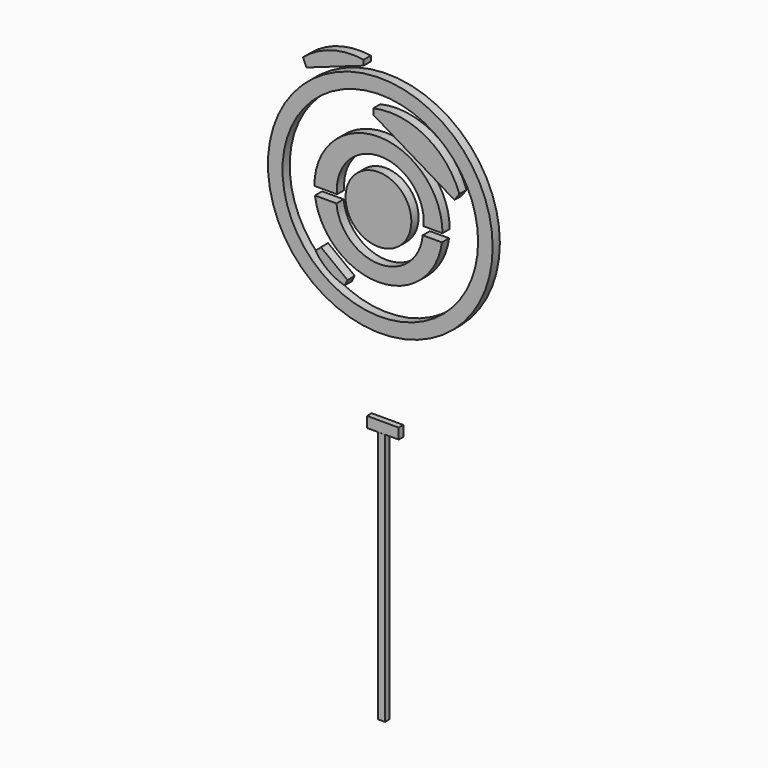
from build123d import *

# Parameters (mm, degrees)
F0_R     = 21.259742
F0_R_2   = 18.504772
F0_R_3   = 6.229934
F1_DEPTH = 1.7
F2_W     = 1.304405
F2_H     = 47.851758
F3_DEPTH = 1.1


with BuildPart() as f1:
    # F0 (on Front) → F1 (new body)
    with BuildSketch(Plane.XZ):
        with BuildLine():
            Line((-2.802637, 39.691429), (-2.802637, 40.686159))
            ThreePointArc((-2.802637, 40.686159), (-8.897626, 40.277937), (-14.26905, 37.368753))
            Line((-14.26905, 37.368753), (-13.616283, 35.870676))
            Line((-13.616283, 35.870676), (-2.802637, 39.691429))
        make_face()
        with BuildLine():
            Line((14.392715, 22.918295), (15.306378, 24.198569))
            ThreePointArc((15.306378, 24.198569), (8.873005, 31.788984), (-0.979339, 33.179663))
            Line((-0.979339, 33.179663), (-0.979339, 32.101933))
            Line((-0.979339, 32.101933), (12.249725, 24.198569))
            Line((12.249725, 24.198569), (14.392715, 22.918295))
        make_face()
        with Locations((0.352491, 17.394527)):
            Circle(F0_R)
        with Locations((0.352491, 17.394527)):
            Circle(F0_R_2, mode=Mode.SUBTRACT)
        with BuildLine():
            ThreePointArc((12.116951, 16.630959), (0, 28.778384), (-12.116951, 16.630959))
            Line((-12.116951, 16.630959), (-7.831703, 16.630959))
            ThreePointArc((-7.831703, 16.630959), (0.352491, 25.614263), (8.536684, 16.630959))
            Line((8.536684, 16.630959), (12.116951, 16.630959))
        make_face()
        with BuildLine():
            Line((-7.93748, 15.074234), (-12.012592, 15.074234))
            ThreePointArc((-12.012592, 15.074234), (0, 4.544405), (12.012592, 15.074234))
            Line((12.012592, 15.074234), (8.373493, 15.074234))
            ThreePointArc((8.373493, 15.074234), (0.218007, 7.607037), (-7.93748, 15.074234))
        make_face()
        with Locations((0, 16.661394)):
            Circle(F0_R_3)
        with BuildLine():
            Line((14.392715, 22.918295), (15.306378, 24.198569))
            ThreePointArc((15.306378, 24.198569), (8.873005, 31.788984), (-0.979339, 33.179663))
            Line((-0.979339, 33.179663), (-0.979339, 32.101933))
            Line((-0.979339, 32.101933), (12.249725, 24.198569))
            Line((12.249725, 24.198569), (14.392715, 22.918295))
        make_face()
        with BuildLine():
            Line((-10.87673, 6.832705), (-11.904089, 5.911151))
            ThreePointArc((-11.904089, 5.911151), (-9.524301, 3.40111), (-6.403918, 1.908826))
            Line((-6.403918, 1.908826), (-5.848269, 2.993843))
            Line((-5.848269, 2.993843), (-10.87673, 6.832705))
        make_face()
    extrude(amount=F1_DEPTH)


with BuildPart() as f3:
    # F2 (on Front) → F3 (new body)
    with BuildSketch(Plane.XZ):
        with Locations((0.104287, -44.779046)):
            Rectangle(F2_W, F2_H)
        Polygon((3.360739, -18.834459), (-2.639192, -18.834459), (-2.639192, -20.863177), (-0.547916, -20.853167), (3.360739, -20.834459), align=None)
    extrude(amount=F3_DEPTH)


solid = Compound([f1.part, f3.part])
